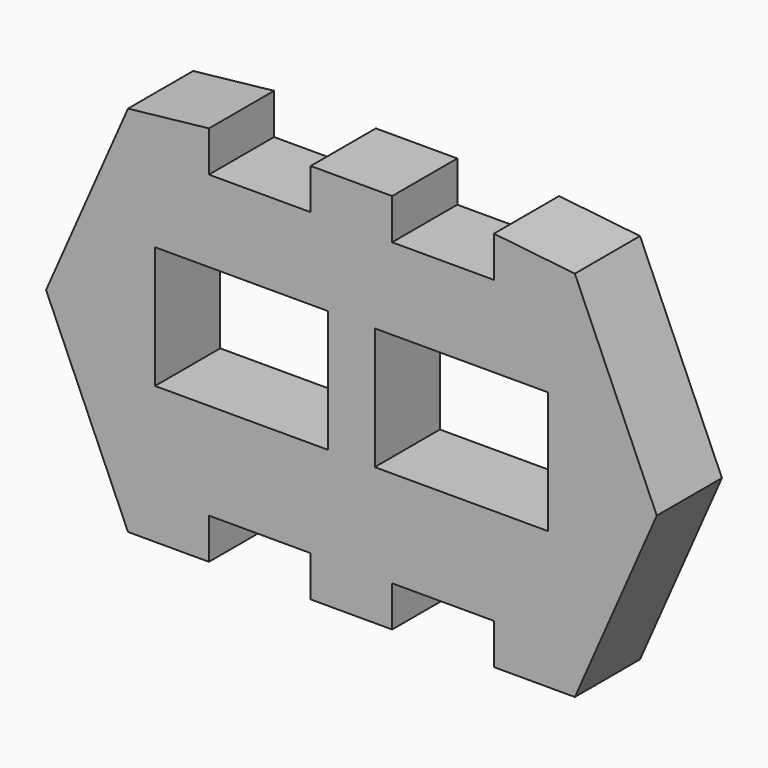
from build123d import *

# Parameters (mm, degrees)
F0_W     = 53.975
F0_H     = 38.1
F1_DEPTH = 25.4


with BuildPart() as f1:
    # F0 (on Front) → F1 (new body)
    with BuildSketch(Plane.XZ):
        Polygon((-23.198215, 44.45), (-54.948215, 44.45), (-54.948215, 57.15), (-80.19618, 54.375061), (-105.748215, -3.75706), (-80.19618, -61.889181), (-54.948215, -61.889181), (-54.948215, -49.189181), (-23.198215, -49.189181), (-23.198215, -61.889181), (-10.498215, -61.889181), (-10.498215, 57.15), (-23.198215, 57.15), align=None)
        with Locations((-44.770079, 0)):
            Rectangle(F0_W, F0_H, mode=Mode.SUBTRACT)
        Polygon((2.201785, 57.15), (-10.498215, 57.15), (-10.498215, -61.889181), (2.201785, -61.889181), (2.201785, -49.189181), (33.951785, -49.189181), (33.951785, -61.889181), (59.199749, -61.889181), (84.751785, -3.75706), (59.199749, 54.375061), (33.951785, 57.15), (33.951785, 44.45), (2.201785, 44.45), align=None)
        with Locations((23.773649, 0)):
            Rectangle(F0_W, F0_H, mode=Mode.SUBTRACT)
    extrude(amount=F1_DEPTH)


solid = f1.part
